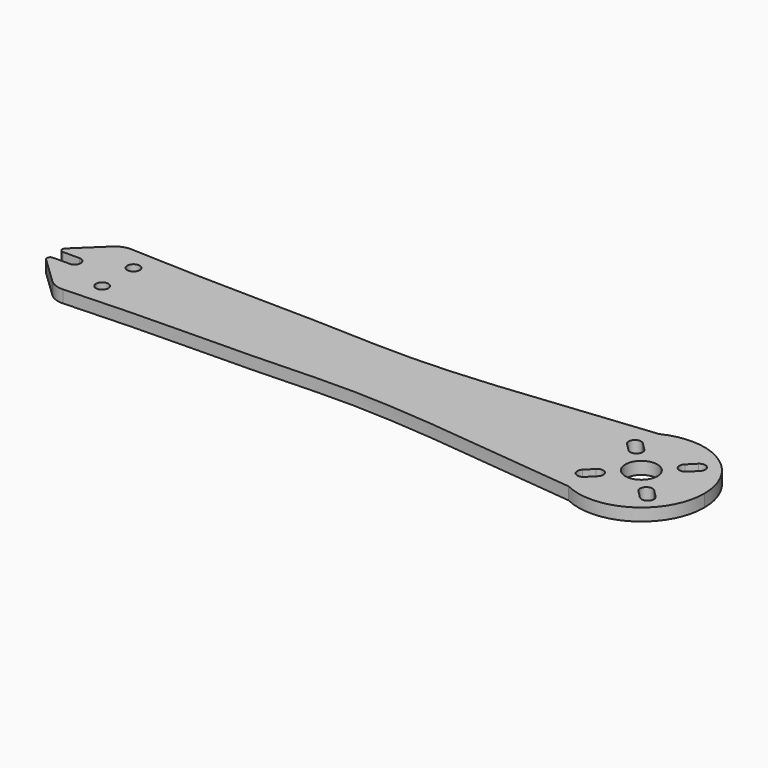
from build123d import *

# Parameters (mm, degrees)
F0_R     = 1.5
F1_DEPTH = 3


with BuildPart() as f1:
    # F0 (on Top) → F1 (new body)
    with BuildSketch(Plane.XY):
        with BuildLine():
            add(Edge.make_bspline(
                [(-6.6800528609, -13.709098941), (-13.6230988968, -12.966112559), (-28.8193966293, -11.35995774), (-60.2323159734, -8.0478026259), (-85.0190153768, -9.5661829277), (-109.9805836112, -9.5257147655), (-126.15485479, -10.2021136613), (-131.7499125902, -10.4552480482)],
                knots=[0, 0, 0, 0, 0.1644519416, 0.3597938043, 0.5352021003, 0.7184076683, 0.848432272, 0.848432272, 0.848432272, 0.848432272], degree=3))
            ThreePointArc((-6.6800528609, -13.709098941), (8.08367781, -12.9312278251), (15.25, 0))
            ThreePointArc((15.25, 0), (8.08367781, 12.9312278251), (-6.6800528609, 13.709098941))
            add(Edge.make_bspline(
                [(-6.6800528609, 13.709098941), (-13.6230988968, 12.966112559), (-28.8193966293, 11.35995774), (-60.2323159734, 8.0478026259), (-85.0190153768, 9.5661829277), (-109.9803350442, 9.5257151685), (-126.1543522734, 10.2020926465), (-131.749284441, 10.4552196292)],
                knots=[0, 0, 0, 0, 0.1644519416, 0.3597938043, 0.5352021003, 0.7184076683, 0.8484274061, 0.8484274061, 0.8484274061, 0.8484274061], degree=3))
            ThreePointArc((-131.749284441, 10.4552196292), (-133.73517656, 10.1403618969), (-135.4364624932, 9.0686674097))
            Line((-135.4364624932, 9.0686674097), (-141.8819995216, 2.8859654139))
            ThreePointArc((-141.8819995216, 2.8859654139), (-142.0716378967, 2.0047030481), (-141.324737254, 1.4999996692))
            Line((-141.324737254, 1.4999996692), (-137.3156530508, 1.4999996692))
            ThreePointArc((-137.3156530508, 1.4999996692), (-135.8156530508, -3.308e-07), (-137.3156530508, -1.5000003308))
            Line((-137.3156530508, -1.5000003308), (-141.3248578726, -1.5000003308))
            ThreePointArc((-141.3248578726, -1.5000003308), (-142.0717522528, -2.0046881347), (-141.8821443687, -2.8859428339))
            Line((-141.8821443687, -2.8859428339), (-135.4372426608, -9.0685515427))
            ThreePointArc((-135.4372426608, -9.0685515427), (-133.7359031159, -10.1403539548), (-131.7499125902, -10.4552480482))
        make_face()
        with Locations((-126.8158406019, -4.75)):
            Circle(F0_R, mode=Mode.SUBTRACT)
        with BuildLine():
            Line((-8.8412747136, -6.7199543701), (-7.019418932, -4.8980985885))
            ThreePointArc((-7.019418932, -4.8980985885), (-4.8980985885, -4.8980985885), (-4.8980985885, -7.019418932))
            Line((-4.8980985885, -7.019418932), (-6.7199543701, -8.8412747136))
            ThreePointArc((-6.7199543701, -8.8412747136), (-8.8412747136, -8.8412747136), (-8.8412747136, -6.7199543701))
        make_face(mode=Mode.SUBTRACT)
        with BuildLine():
            ThreePointArc((4.8980985885, -7.019418932), (4.8980985885, -4.8980985885), (7.019418932, -4.8980985885))
            Line((7.019418932, -4.8980985885), (8.8412747136, -6.7199543701))
            ThreePointArc((8.8412747136, -6.7199543701), (8.8412747136, -8.8412747136), (6.7199543701, -8.8412747136))
            Line((6.7199543701, -8.8412747136), (4.8980985885, -7.019418932))
        make_face(mode=Mode.SUBTRACT)
        with Locations((-126.8158406019, 4.75)):
            Circle(F0_R, mode=Mode.SUBTRACT)
        with BuildLine():
            ThreePointArc((-3.875, 0), (0, 3.875), (3.875, 0))
            ThreePointArc((3.875, 0), (0, -3.875), (-3.875, 0))
        make_face(mode=Mode.SUBTRACT)
        with BuildLine():
            ThreePointArc((-8.8412747136, 6.7199543701), (-8.8412747136, 8.8412747136), (-6.7199543701, 8.8412747136))
            Line((-6.7199543701, 8.8412747136), (-4.8980985885, 7.019418932))
            ThreePointArc((-4.8980985885, 7.019418932), (-4.8980985885, 4.8980985885), (-7.019418932, 4.8980985885))
            Line((-7.019418932, 4.8980985885), (-8.8412747136, 6.7199543701))
        make_face(mode=Mode.SUBTRACT)
        with BuildLine():
            Line((8.8412747136, 6.7199543701), (7.019418932, 4.8980985885))
            ThreePointArc((7.019418932, 4.8980985885), (4.8980985885, 4.8980985885), (4.8980985885, 7.019418932))
            Line((4.8980985885, 7.019418932), (6.7199543701, 8.8412747136))
            ThreePointArc((6.7199543701, 8.8412747136), (8.8412747136, 8.8412747136), (8.8412747136, 6.7199543701))
        make_face(mode=Mode.SUBTRACT)
    extrude(amount=F1_DEPTH)


solid = f1.part
